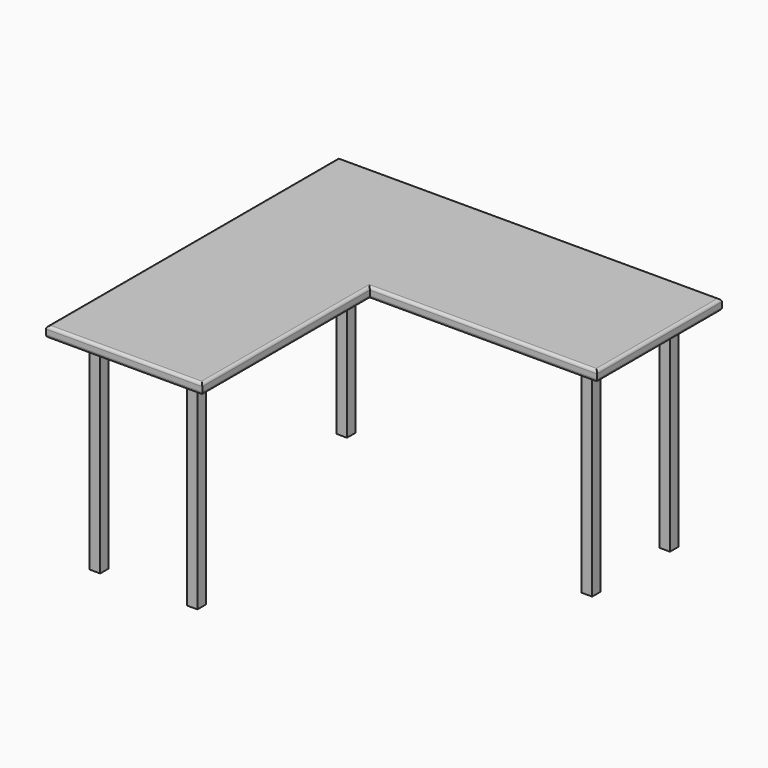
from build123d import *

# Parameters (mm, degrees)
F1_DEPTH = 38.1
F2_R     = 10.16
F3_W     = 38.1
F3_H     = 38.1
F4_DEPTH = 736.6


with BuildPart() as f1:
    # F0 (on Top) → F1 (new body)
    with BuildSketch(Plane.XY):
        Polygon((1371.6, 0), (0, 0), (0, -1308.1), (558.8, -1308.1), (558.8, -558.8), (1371.6, -558.8), align=None)
    extrude(amount=F1_DEPTH)

    # F2
    f2_edges = [f1.edges().sort_by_distance(p)[0] for p in [
        (0, -654.05, 38.1),
        (279.4, -1308.1, 38.1),
        (558.8, -933.45, 38.1),
        (965.2, -558.8, 38.1),
        (1371.6, -279.4, 38.1),
        (685.8, 0, 38.1),
        (279.4, -1308.1, 0),
        (0, -654.05, 0),
        (685.8, 0, 0),
        (1371.6, -279.4, 0),
        (965.2, -558.8, 0),
        (558.8, -933.45, 0),
    ]]
    fillet(f2_edges, radius=F2_R)

    # F3 (on face) → F4 (join)
    with BuildSketch(Plane(origin=(0, 0, 0), x_dir=(1, 0, 0), z_dir=(0, 0, -1))):
        with Locations((130.81, 130.81)):
            Rectangle(F3_W, F3_H)
        with Locations((1266.19, 105.41)):
            Rectangle(F3_W, F3_H)
        with Locations((1266.19, 453.39)):
            Rectangle(F3_W, F3_H)
        with Locations((105.41, 1202.69)):
            Rectangle(F3_W, F3_H)
        with Locations((453.39, 1202.69)):
            Rectangle(F3_W, F3_H)
    extrude(amount=F4_DEPTH)


solid = f1.part
